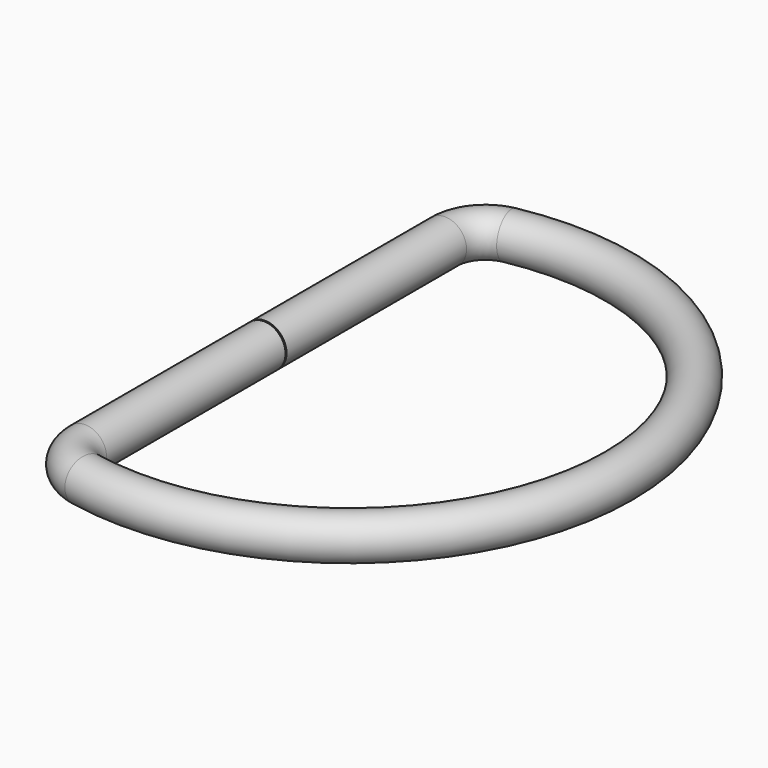
from build123d import *

# Parameters (mm, degrees)
F1_R = 1.6


with BuildPart() as f2:
    # F2: sweep along a path in F0
    with BuildLine(Plane.XY) as f2_path:
        Line((0, 0), (0, 16.687420052))
        ThreePointArc((0, 16.687420052), (0.6850550636, 18.5955683537), (2.4273532944, 19.6322588847))
        ThreePointArc((2.4273532944, 19.6322588847), (26.2449979984, 0), (2.4273532944, -19.6322588847))
        ThreePointArc((2.4273532944, -19.6322588847), (0.6850550636, -18.5955683537), (0, -16.687420052))
        Line((0, -16.687420052), (0, -0.1))
    # F1 (on Front) → F2 (sweep)
    with BuildSketch(Plane.XZ):
        Circle(F1_R)
    sweep(path=f2_path.line)


solid = f2.part
